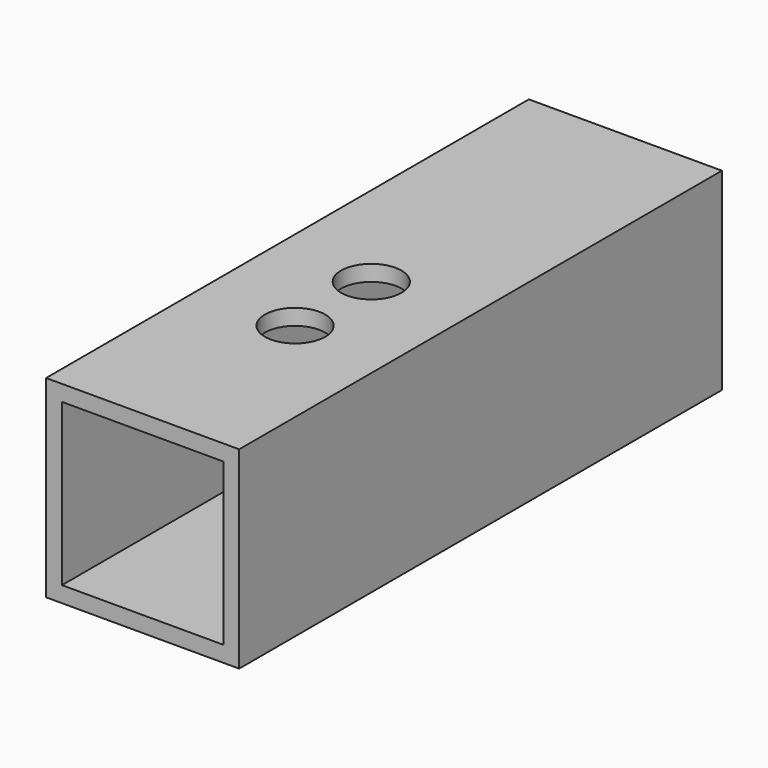
from build123d import *

# Parameters (mm, degrees)
F0_W     = 30.4
F0_H     = 30.4
F1_DEPTH = 95
F2_T     = -2.5
F3_R     = 4.75
F4_DEPTH = 38.5


with BuildPart() as f1:
    # F0 (on Front) → F1 (new body)
    with BuildSketch(Plane.XZ):
        Rectangle(F0_W, F0_H)
    extrude(amount=F1_DEPTH)

    # F2
    f2_openings = [f1.faces().sort_by_distance(p)[0] for p in [
        (0, -95, 0),
        (0, 0, 0),
    ]]
    offset(amount=F2_T, openings=f2_openings)

    # F3 (on face) → F4 (cut)
    with BuildSketch(Plane.XY.offset(15.2)):
        with Locations((0, -65)):
            Circle(F3_R)
        with Locations((0, -50)):
            Circle(F3_R)
    extrude(amount=-F4_DEPTH, mode=Mode.SUBTRACT)


solid = f1.part
